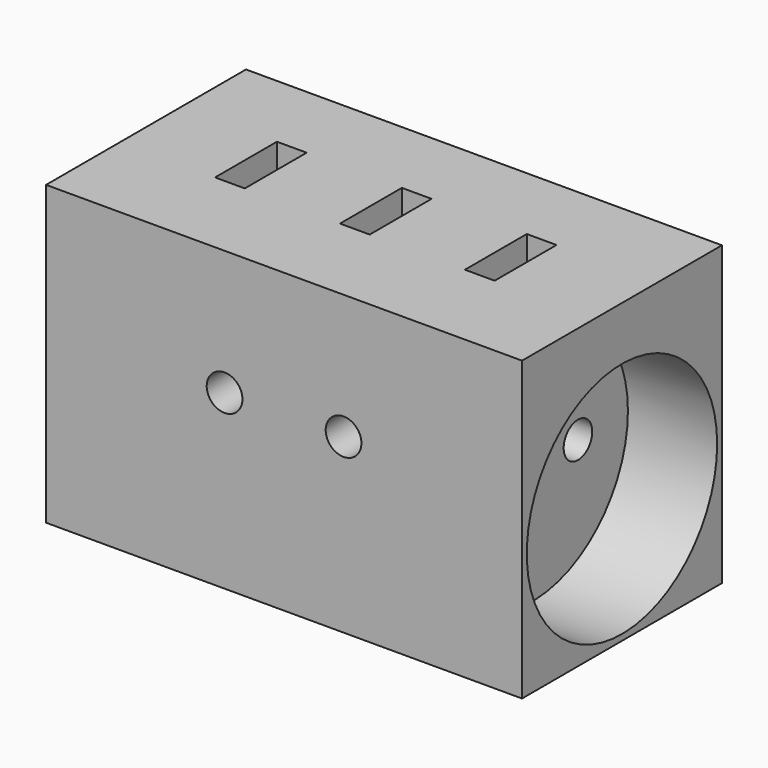
from build123d import *

# Parameters (mm, degrees)
F0_W      = 80
F0_H      = 42
F1_DEPTH  = 50
F2_W      = 5
F2_H      = 13
F3_DEPTH  = 12
F4_W      = 5
F4_H      = 13
F5_DEPTH  = 12
F6_W      = 5
F6_H      = 13
F7_DEPTH  = 12
F8_R      = 20
F9_DEPTH  = 15
F10_R     = 3
F11_DEPTH = 20
F12_R     = 3
F13_DEPTH = 20
F14_R     = 3
F15_DEPTH = 20
F16_R     = 20
F17_DEPTH = 15
F18_R     = 3
F19_DEPTH = 20
F20_R     = 3
F21_DEPTH = 20
F22_R     = 3
F23_DEPTH = 20
F24_R     = 3
F25_DEPTH = 15
F26_R     = 3
F27_DEPTH = 15


with BuildPart() as f1:
    # F0 (on Top) → F1 (new body)
    with BuildSketch(Plane.XY):
        with Locations((42.418869, -21)):
            Rectangle(F0_W, F0_H)
    extrude(amount=F1_DEPTH)

    # F2 (on face) → F3 (cut)
    with BuildSketch(Plane.XY.offset(50)):
        with Locations((20.918869, -20)):
            Rectangle(F2_W, F2_H)
    extrude(amount=-F3_DEPTH, mode=Mode.SUBTRACT)

    # F4 (on face) → F5 (cut)
    with BuildSketch(Plane.XY.offset(50)):
        with Locations((41.918869, -20)):
            Rectangle(F4_W, F4_H)
    extrude(amount=-F5_DEPTH, mode=Mode.SUBTRACT)

    # F6 (on face) → F7 (cut)
    with BuildSketch(Plane.XY.offset(50)):
        with Locations((62.918869, -20)):
            Rectangle(F6_W, F6_H)
    extrude(amount=-F7_DEPTH, mode=Mode.SUBTRACT)

    # F8 (on face) → F9 (cut)
    with BuildSketch(Plane.YZ.offset(82.418869)):
        with Locations((-21, 21)):
            Circle(F8_R)
    extrude(amount=-F9_DEPTH, mode=Mode.SUBTRACT)

    # F10 (on face) → F11 (cut)
    with BuildSketch(Plane.YZ.offset(67.418869)):
        with Locations((-11.5, 21)):
            Circle(F10_R)
    extrude(amount=-F11_DEPTH, mode=Mode.SUBTRACT)

    # F12 (on face) → F13 (cut)
    with BuildSketch(Plane.YZ.offset(67.418869)):
        with Locations((-30.5, 21)):
            Circle(F12_R)
    extrude(amount=-F13_DEPTH, mode=Mode.SUBTRACT)

    # F14 (on face) → F15 (cut)
    with BuildSketch(Plane.YZ.offset(67.418869)):
        with Locations((-21, 31)):
            Circle(F14_R)
    extrude(amount=-F15_DEPTH, mode=Mode.SUBTRACT)

    # F16 (on face) → F17 (cut)
    with BuildSketch(Plane(origin=(2.418869, 0, 0), x_dir=(0, -1, 0), z_dir=(-1, 0, 0))):
        with Locations((21, 21)):
            Circle(F16_R)
    extrude(amount=-F17_DEPTH, mode=Mode.SUBTRACT)

    # F18 (on face) → F19 (cut)
    with BuildSketch(Plane(origin=(17.418869, 0, 0), x_dir=(0, -1, 0), z_dir=(-1, 0, 0))):
        with Locations((30.5, 21)):
            Circle(F18_R)
    extrude(amount=-F19_DEPTH, mode=Mode.SUBTRACT)

    # F20 (on face) → F21 (cut)
    with BuildSketch(Plane(origin=(17.418869, 0, 0), x_dir=(0, -1, 0), z_dir=(-1, 0, 0))):
        with Locations((11.5, 21)):
            Circle(F20_R)
    extrude(amount=-F21_DEPTH, mode=Mode.SUBTRACT)

    # F22 (on face) → F23 (cut)
    with BuildSketch(Plane(origin=(17.418869, 0, 0), x_dir=(0, -1, 0), z_dir=(-1, 0, 0))):
        with Locations((21, 31)):
            Circle(F22_R)
    extrude(amount=-F23_DEPTH, mode=Mode.SUBTRACT)

    # F24 (on face) → F25 (cut)
    with BuildSketch(Plane.XZ.offset(42)):
        with Locations((32.418869, 29)):
            Circle(F24_R)
    extrude(amount=-F25_DEPTH, mode=Mode.SUBTRACT)

    # F26 (on face) → F27 (cut)
    with BuildSketch(Plane.XZ.offset(42)):
        with Locations((52.418869, 29)):
            Circle(F26_R)
    extrude(amount=-F27_DEPTH, mode=Mode.SUBTRACT)


solid = f1.part
